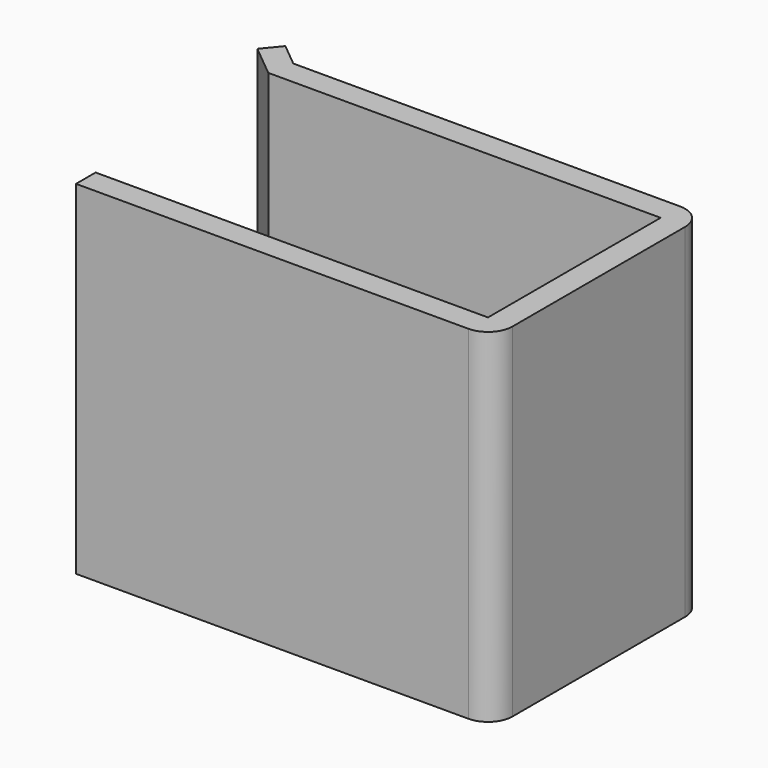
from build123d import *

# Parameters (mm, degrees)
F1_DEPTH = 35
F3_DEPTH = 10
F5_DEPTH = 35
F6_R     = 2.5


with BuildPart() as f1:
    # F0 (on Top) → F1 (new body)
    with BuildSketch(Plane.XY):
        Polygon((-20, 13.5), (-20, 11), (20, 11), (20, -11), (-20, -11), (-20, -13.5), (22.5, -13.5), (22.5, 13.5), align=None)
    extrude(amount=F1_DEPTH)

    # F2 (on face) → F3 (join)
    with BuildSketch(Plane(origin=(0, 0, 0), x_dir=(1, 0, 0), z_dir=(0, 0, -1))):
        Polygon((-19, -11), (-13, -11), (-13, -8), (-19, -10), align=None)
    extrude(amount=-F3_DEPTH)

    # F4 (on face) → F5 (join)
    with BuildSketch(Plane(origin=(0, 0, 0), x_dir=(1, 0, 0), z_dir=(0, 0, -1))):
        Polygon((-20, -13.5), (-20, -11), (-23.267881, -13.694357), (-21.817495, -15.453473), (-19.448203, -13.5), align=None)
    extrude(amount=-F5_DEPTH)

    # F6
    f6_edges = [f1.edges().sort_by_distance(p)[0] for p in [
        (22.5, 13.5, 17.5),
        (22.5, -13.5, 17.5),
    ]]
    fillet(f6_edges, radius=F6_R)


solid = f1.part
